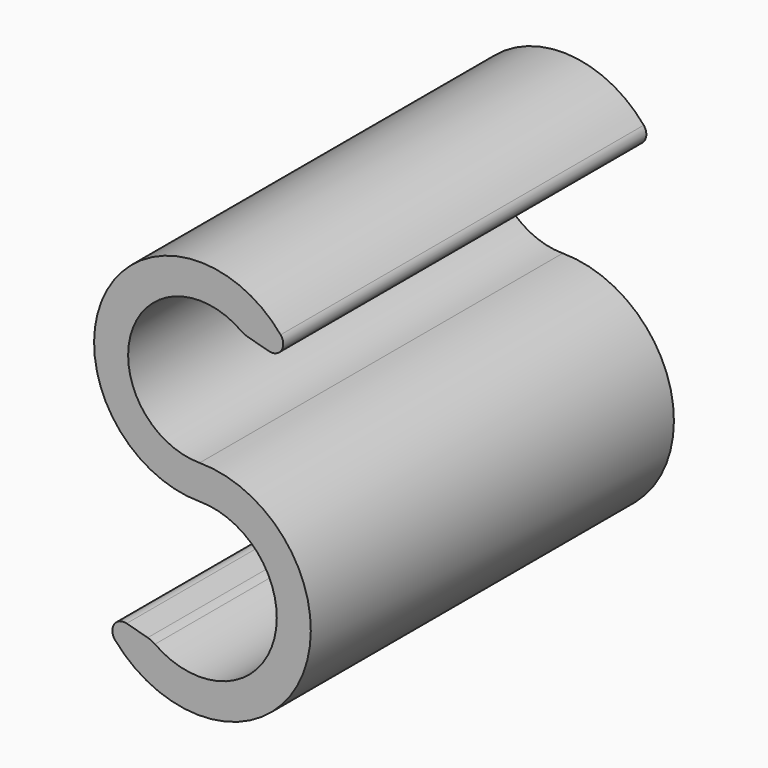
from build123d import *

# Parameters (mm, degrees)
F1_DEPTH = 20


with BuildPart() as f1:
    # F0 (on Front) → F1 (new body)
    with BuildSketch(Plane.XZ):
        with BuildLine():
            ThreePointArc((0, 3.4), (3.239704, -1.031657), (-1.966037, -2.773932))
            ThreePointArc((-1.966037, -2.773932), (-2.119078, -2.684697), (-2.285464, -2.623868))
            Line((-2.285464, -2.623868), (-3.216573, -2.374379))
            ThreePointArc((-3.216573, -2.374379), (-3.768837, -2.59052), (-3.726208, -3.182039))
            ThreePointArc((-3.726208, -3.182039), (4.449831, -2.051586), (0, 4.9))
            ThreePointArc((0, 4.9), (-3.002251, 9.003409), (1.817379, 10.622865))
            ThreePointArc((1.817379, 10.622865), (1.969841, 10.534212), (2.135506, 10.473721))
            Line((2.135506, 10.473721), (3.055972, 10.227083))
            ThreePointArc((3.055972, 10.227083), (3.606759, 10.440898), (3.569162, 11.030534))
            ThreePointArc((3.569162, 11.030534), (-4.212006, 10.020155), (0, 3.4))
        make_face()
    extrude(amount=F1_DEPTH)


solid = f1.part
